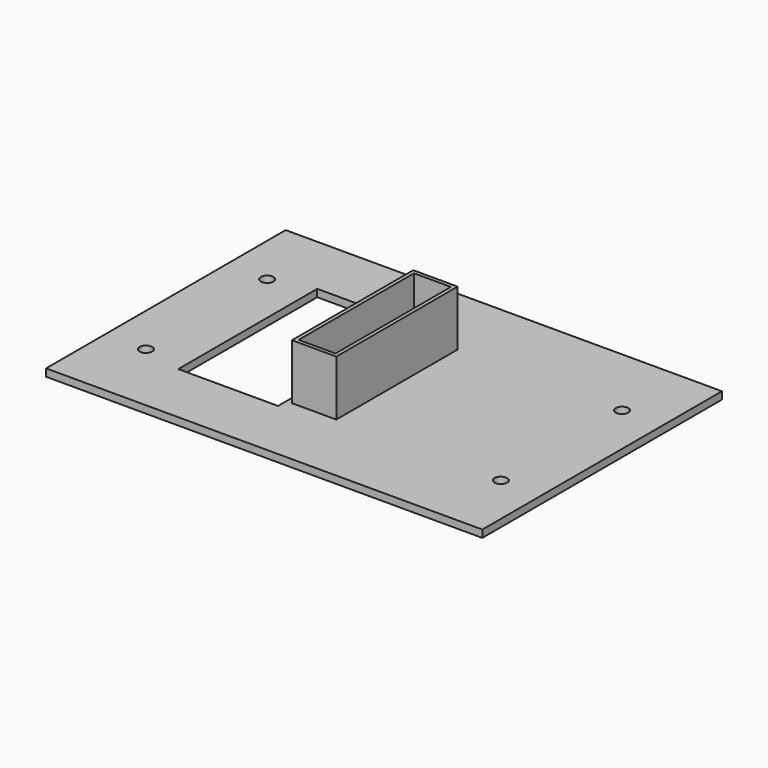
from build123d import *

# Parameters (mm, degrees)
SKETCH_W        = 118
SKETCH_H        = 81
PAD_DEPTH       = 2
SKETCH001_R     = 1.7
HOLE_DEPTH      = 25
SKETCH002_W     = 12
SKETCH002_H     = 41
PAD001_DEPTH    = 15
SKETCH003_W     = 10
SKETCH003_H     = 39
POCKET_DEPTH    = 17.001
SKETCH004_W     = 27
SKETCH004_H     = 47
POCKET001_DEPTH = 5


with BuildPart() as part:
    # Sketch → Pad (new body)
    with BuildSketch(Plane.XY):
        Rectangle(SKETCH_W, SKETCH_H)
    extrude(amount=PAD_DEPTH)

    # Sketch001 (on Face5 of Pad) → Hole (cut)
    with BuildSketch(Plane(origin=(0, 0, 0), x_dir=(1, 0, 0), z_dir=(0, 0, -1))):
        with Locations((-48, 20.5)):
            Circle(SKETCH001_R)
        with Locations((-48, -20.5)):
            Circle(SKETCH001_R)
        with Locations((48, 20.5)):
            Circle(SKETCH001_R)
        with Locations((48, -20.5)):
            Circle(SKETCH001_R)
    extrude(amount=-HOLE_DEPTH, mode=Mode.SUBTRACT)

    # Sketch002 (on Face5 of Hole) → Pad001 (join)
    with BuildSketch(Plane.XY.offset(2)):
        with Locations((-2.5, 0)):
            Rectangle(SKETCH002_W, SKETCH002_H)
    extrude(amount=PAD001_DEPTH)

    # Sketch003 (on Face15 of Pad001) → Pocket (cut, through all)
    with BuildSketch(Plane.XY.offset(17)):
        with Locations((-2.5, 0)):
            Rectangle(SKETCH003_W, SKETCH003_H)
    extrude(amount=-POCKET_DEPTH, mode=Mode.SUBTRACT)

    # Sketch004 (on Face5 of Pocket) → Pocket001 (cut)
    with BuildSketch(Plane.XY.offset(2)):
        with Locations((-23.5, 0.180496)):
            Rectangle(SKETCH004_W, SKETCH004_H)
    extrude(amount=-POCKET001_DEPTH, mode=Mode.SUBTRACT)


solid = part.part
